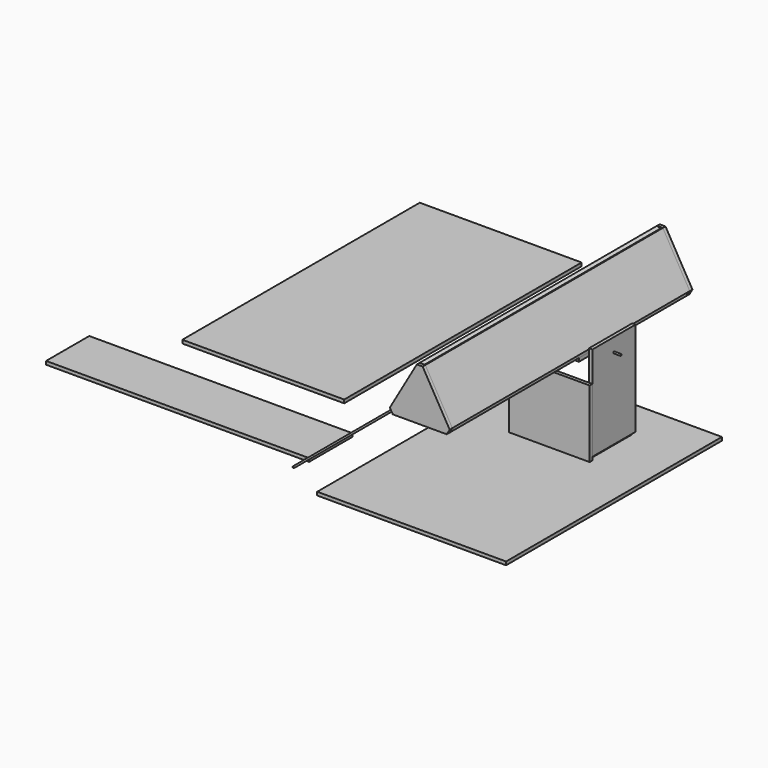
from build123d import *

# Parameters (mm, degrees)
F0_W           = 177.8
F0_H           = 254
F1_DEPTH       = 3.175
F2_W           = 69.85
F2_H           = 50.8
F3_DEPTH       = 3.175
F4_W           = 3.175
F4_H           = 50.8
F5_DEPTH       = 88.9
F6_R           = 0.79375
F7_DEPTH       = 127.001
F8_R           = 0.79375
F9_DEPTH       = 6.35
F9_DEPTH_BACK  = 82.55
F10_W          = 50.8
F10_H          = 3.175
F11_DEPTH      = 25.4
F14_DEPTH      = 279.4
F13_W          = 50.8
F13_H          = 3.175
F17_DEPTH      = 3.175
F19_R          = 0.79375
F20_DEPTH      = 50.8
F20_DEPTH_BACK = 114.3
F21_W          = 152.4
F21_H          = 279.4
F22_DEPTH      = 3.175
F23_W          = 76.2
F23_H          = 63.5
F24_DEPTH      = 3.175
F25_W          = 247.65
F25_H          = 50.8
F26_DEPTH      = 3.175


with BuildPart() as f1:
    # F0 (on Top) → F1 (new body)
    with BuildSketch(Plane.XY):
        Rectangle(F0_W, F0_H)
    extrude(amount=F1_DEPTH)


with BuildPart() as f3:
    # F2 (on face) → F3 (new body)
    with BuildSketch(Plane.XY.offset(3.175)):
        with Locations((0, 63.5)):
            Rectangle(F2_W, F2_H)
    extrude(amount=F3_DEPTH)


with BuildPart() as f5:
    # F4 (on face) → F5 (new body)
    with BuildSketch(Plane.XY.offset(6.35)):
        with Locations((36.5125, 63.5)):
            Rectangle(F4_W, F4_H)
    extrude(amount=F5_DEPTH)


with BuildPart() as f5b:
    # F4 (on face) → F5, piece 2 (new body)
    with BuildSketch(Plane.XY.offset(6.35)):
        with Locations((-36.5125, 63.5)):
            Rectangle(F4_W, F4_H)
    extrude(amount=F5_DEPTH)


with BuildPart() as f7_tool:
    # F6 (on face) → F7 (new body, through all)
    with BuildSketch(Plane(origin=(-38.1, 0, 0), x_dir=(0, -1, 0), z_dir=(-1, 0, 0))):
        with Locations((-63.5, 82.4774578214)):
            Circle(F6_R)
    extrude(amount=-F7_DEPTH)


with BuildPart() as f5_1:
    add(f5.part)

    # F7: cut by f7_tool
    add(f7_tool.part, mode=Mode.SUBTRACT)


with BuildPart() as f5b_1:
    add(f5b.part)

    # F7: cut by f7_tool
    add(f7_tool.part, mode=Mode.SUBTRACT)


with BuildPart() as f9:
    # F8 (on face) → F9 (new body, two sides)
    with BuildSketch(Plane(origin=(-38.1, 0, 0), x_dir=(0, -1, 0), z_dir=(-1, 0, 0))) as f9_sk:
        with Locations((-63.5, 82.4774578214)):
            Circle(F8_R)
    extrude(amount=F9_DEPTH)
    extrude(f9_sk.sketch, amount=-F9_DEPTH_BACK)


with BuildPart() as f11:
    # F10 (on Right) → F11 (new body, symmetric)
    with BuildSketch(Plane.YZ):
        with Locations((63.5, 82.4774578214)):
            Rectangle(F10_W, F10_H)
    extrude(amount=F11_DEPTH, both=True)


with BuildPart() as f14:
    # F13 (on offset) → F14 (new body)
    with BuildSketch(Plane(origin=(0, 165.1, 0), x_dir=(-1, 0, 0), z_dir=(0, 1, 0))):
        Polygon((-28.149630657, 88.8274578214), (-25.4, 87.2399578214), (0, 131.2340483336), (-2.749630657, 132.8215483336), align=None)
    extrude(amount=-F14_DEPTH)


with BuildPart() as f14b:
    # F13 (on offset) → F14, piece 2 (new body)
    with BuildSketch(Plane(origin=(0, 165.1, 0), x_dir=(-1, 0, 0), z_dir=(0, 1, 0))):
        Polygon((0, 131.2340483336), (25.4, 87.2399578214), (28.149630657, 88.8274578214), (2.749630657, 132.8215483336), align=None)
    extrude(amount=-F14_DEPTH)


with BuildPart() as f14c:
    # F13 (on offset) → F14, piece 3 (new body)
    with BuildSketch(Plane(origin=(0, 165.1, 0), x_dir=(-1, 0, 0), z_dir=(0, 1, 0))):
        with Locations((0, 85.6524578214)):
            Rectangle(F13_W, F13_H)
    extrude(amount=-F14_DEPTH)


with BuildPart() as f17:
    # F16 (on face) → F17 (new body)
    with BuildSketch(Plane(origin=(0, 165.1, 0), x_dir=(-1, 0, 0), z_dir=(0, 1, 0))):
        Polygon((-2.749630657, 132.8215483336), (-28.149630657, 88.8274578214), (-25.4, 84.0649578214), (25.4, 84.0649578214), (28.149630657, 88.8274578214), (2.749630657, 132.8215483336), align=None)
    extrude(amount=F17_DEPTH)


with BuildPart() as f18_1:
    # F18: instance of F17
    add(f17.part.mirror(Plane(origin=(14.0748153285, 25.4, 110.0307530775), x_dir=(-1, 0, 0), z_dir=(0, 1, 0))))

    # F19 (on face) → F20 (join, two sides)
    with BuildSketch(Plane.XZ.offset(117.475)) as f20_sk:
        with Locations((-27.4622229928, 86.0493328214)):
            Circle(F19_R)
    extrude(amount=-F20_DEPTH)
    extrude(f20_sk.sketch, amount=F20_DEPTH_BACK)


with BuildPart() as f22:
    # F21 (on Top) → F22 (new body)
    with BuildSketch(Plane.XY):
        with Locations((-241.3, 139.7)):
            Rectangle(F21_W, F21_H)
    extrude(amount=F22_DEPTH)


with BuildPart() as f24:
    # F23 (on face) → F24 (new body)
    with BuildSketch(Plane.XZ.offset(-38.1)):
        with Locations((0, 34.925)):
            Rectangle(F23_W, F23_H)
    extrude(amount=F24_DEPTH)


with BuildPart() as f26:
    # F25 (on Top) → F26 (new body)
    with BuildSketch(Plane.XY):
        with Locations((-250.825, -63.5)):
            Rectangle(F25_W, F25_H)
    extrude(amount=F26_DEPTH)


solid = Compound([f1.part, f3.part, f5_1.part, f5b_1.part, f9.part, f11.part, f14.part, f14b.part, f14c.part, f17.part, f18_1.part, f22.part, f24.part, f26.part])
